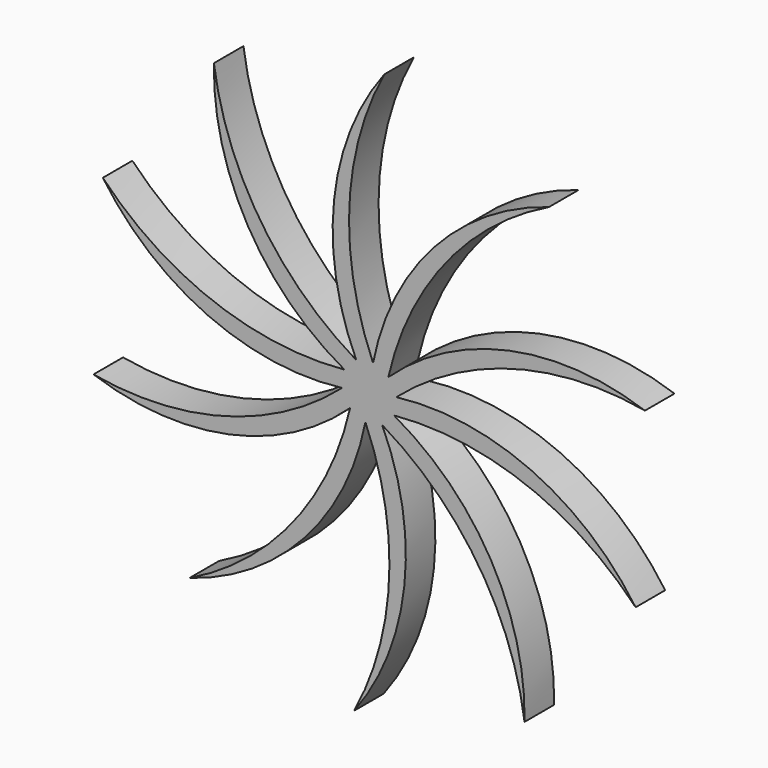
from build123d import *

# Parameters (mm, degrees)
F1_DEPTH = 12.7


with BuildPart() as f1:
    # F0 (on Front) → F1 (new body)
    with BuildSketch(Plane.XZ):
        with BuildLine():
            ThreePointArc((6.572816, 6.812144), (26.277771, 47.8275), (61.812241, 76.250136))
            ThreePointArc((61.812241, 76.250136), (22.272642, 51.216691), (1.313443, 9.374544))
            ThreePointArc((1.313443, 9.374544), (-6.853136, 54.138947), (5.188448, 98.019979))
            ThreePointArc((5.188448, 98.019979), (-12.08547, 54.526704), (-4.447622, 8.356188))
            ThreePointArc((-4.447622, 8.356188), (-37.366378, 39.771156), (-53.417156, 82.349522))
            ThreePointArc((-53.417156, 82.349522), (-41.827343, 37.009369), (-8.509846, 4.146052))
            ThreePointArc((-8.509846, 4.146052), (-53.606934, 10.212135), (-91.619221, 35.224346))
            ThreePointArc((-91.619221, 35.224346), (-55.592593, 5.355713), (-9.321598, -1.647735))
            ThreePointArc((-9.321598, -1.647735), (-49.371463, -23.247574), (-94.825858, -25.355332))
            ThreePointArc((-94.825858, -25.355332), (-48.123361, -28.343643), (-6.572816, -6.812144))
            ThreePointArc((-6.572816, -6.812144), (-26.277771, -47.8275), (-61.812241, -76.250136))
            ThreePointArc((-61.812241, -76.250136), (-22.272642, -51.216691), (-1.313443, -9.374544))
            ThreePointArc((-1.313443, -9.374544), (6.853136, -54.138947), (-5.188448, -98.019979))
            ThreePointArc((-5.188448, -98.019979), (12.08547, -54.526704), (4.447622, -8.356188))
            ThreePointArc((4.447622, -8.356188), (37.366378, -39.771156), (53.417156, -82.349522))
            ThreePointArc((53.417156, -82.349522), (41.827343, -37.009369), (8.509846, -4.146052))
            ThreePointArc((8.509846, -4.146052), (53.606934, -10.212135), (91.619221, -35.224346))
            ThreePointArc((91.619221, -35.224346), (55.592593, -5.355713), (9.321598, 1.647735))
            ThreePointArc((9.321598, 1.647735), (49.371463, 23.247574), (94.825858, 25.355332))
            ThreePointArc((94.825858, 25.355332), (48.123361, 28.343643), (6.572816, 6.812144))
        make_face()
        Polygon((-4.938063, -1.002567), (-5.263817, 0), (-4.584271, 2.091427), (-4.258517, 3.093994), (-2.479443, 4.386567), (-1.626609, 5.006187), (0.572448, 5.006187), (1.626609, 5.006187), (3.405683, 3.713614), (4.258517, 3.093994), (4.938063, 1.002567), (5.263817, 0), (4.584271, -2.091427), (4.258517, -3.093994), (2.479443, -4.386567), (1.626609, -5.006187), (-0.572448, -5.006187), (-1.626609, -5.006187), (-3.405683, -3.713614), (-4.258517, -3.093994), align=None, mode=Mode.SUBTRACT)
        with BuildLine():
            ThreePointArc((-0.572448, -5.006187), (-0.250143, -2.507219), (0, 0))
            ThreePointArc((0, 0), (-1.676076, -1.881353), (-3.405683, -3.713614))
            Line((-3.405683, -3.713614), (-1.626609, -5.006187))
            Line((-1.626609, -5.006187), (-0.572448, -5.006187))
        make_face()
        with BuildLine():
            ThreePointArc((0, 0), (-2.461806, -0.536873), (-4.938063, -1.002567))
            Line((-4.938063, -1.002567), (-4.258517, -3.093994))
            Line((-4.258517, -3.093994), (-3.405683, -3.713614))
            ThreePointArc((-3.405683, -3.713614), (-1.676076, -1.881353), (0, 0))
        make_face()
        with BuildLine():
            Line((-4.584271, 2.091427), (-5.263817, 0))
            Line((-5.263817, 0), (-4.938063, -1.002567))
            ThreePointArc((-4.938063, -1.002567), (-2.461806, -0.536873), (0, 0))
            ThreePointArc((0, 0), (-2.307209, 1.012673), (-4.584271, 2.091427))
        make_face()
        with BuildLine():
            Line((-4.258517, 3.093994), (-4.584271, 2.091427))
            ThreePointArc((-4.584271, 2.091427), (-2.307209, 1.012673), (0, 0))
            ThreePointArc((0, 0), (-1.271337, 2.175413), (-2.479443, 4.386567))
            Line((-2.479443, 4.386567), (-4.258517, 3.093994))
        make_face()
        with BuildLine():
            ThreePointArc((-2.479443, 4.386567), (-1.271337, 2.175413), (0, 0))
            ThreePointArc((0, 0), (0.250143, 2.507219), (0.572448, 5.006187))
            Line((0.572448, 5.006187), (-1.626609, 5.006187))
            Line((-1.626609, 5.006187), (-2.479443, 4.386567))
        make_face()
        with BuildLine():
            ThreePointArc((0.572448, 5.006187), (0.250143, 2.507219), (0, 0))
            ThreePointArc((0, 0), (1.676076, 1.881353), (3.405683, 3.713614))
            Line((3.405683, 3.713614), (1.626609, 5.006187))
            Line((1.626609, 5.006187), (0.572448, 5.006187))
        make_face()
        with BuildLine():
            ThreePointArc((3.405683, 3.713614), (1.676076, 1.881353), (0, 0))
            ThreePointArc((0, 0), (2.461806, 0.536873), (4.938063, 1.002567))
            Line((4.938063, 1.002567), (4.258517, 3.093994))
            Line((4.258517, 3.093994), (3.405683, 3.713614))
        make_face()
        with BuildLine():
            ThreePointArc((4.938063, 1.002567), (2.461806, 0.536873), (0, 0))
            ThreePointArc((0, 0), (2.307209, -1.012673), (4.584271, -2.091427))
            Line((4.584271, -2.091427), (5.263817, 0))
            Line((5.263817, 0), (4.938063, 1.002567))
        make_face()
        with BuildLine():
            ThreePointArc((4.584271, -2.091427), (2.307209, -1.012673), (0, 0))
            ThreePointArc((0, 0), (1.271337, -2.175413), (2.479443, -4.386567))
            Line((2.479443, -4.386567), (4.258517, -3.093994))
            Line((4.258517, -3.093994), (4.584271, -2.091427))
        make_face()
        with BuildLine():
            ThreePointArc((2.479443, -4.386567), (1.271337, -2.175413), (0, 0))
            ThreePointArc((0, 0), (-0.250143, -2.507219), (-0.572448, -5.006187))
            Line((-0.572448, -5.006187), (1.626609, -5.006187))
            Line((1.626609, -5.006187), (2.479443, -4.386567))
        make_face()
    extrude(amount=F1_DEPTH)


solid = f1.part
